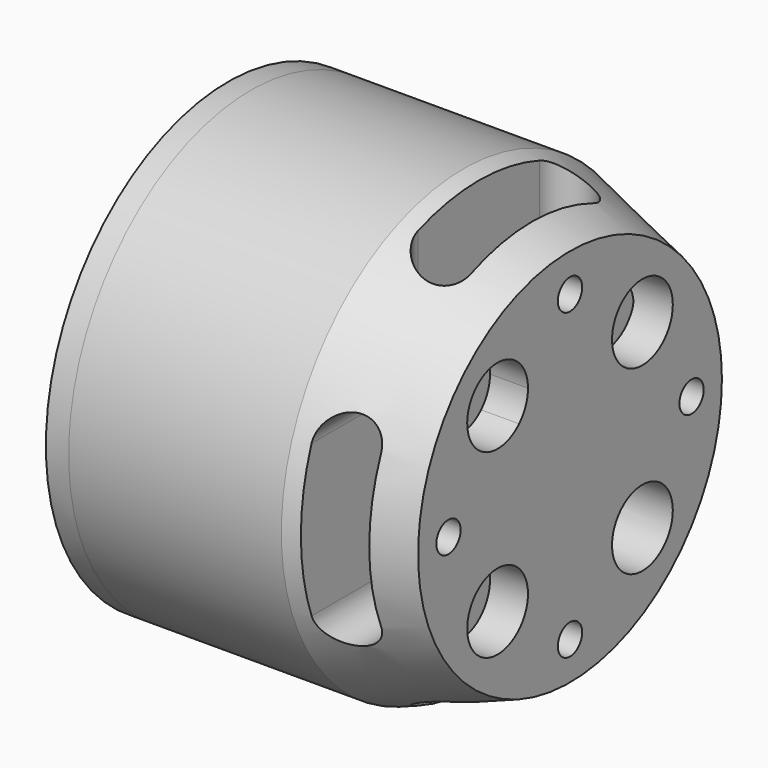
from build123d import *

# Parameters (mm, degrees)
F0_R      = 30
F1_DEPTH  = 14
F2_W      = 2
F2_H      = 5
F4_R      = 2
F4_R_2    = 5
F5_DEPTH  = 10
F6_R      = 1.5
F7_DEPTH  = 12
F9_DEPTH  = 32.5
F11_DEPTH = 32.5


with BuildPart() as f1:
    # F0 (on Right) → F1 (new body, symmetric)
    with BuildSketch(Plane.YZ):
        Circle(F0_R)
    extrude(amount=F1_DEPTH, both=True)

    # F2 (on Top) → F3 (revolve)
    with BuildSketch(Plane.XY):
        Polygon((14, 30), (14, 0), (28, 0), (28, 25), align=None)
        Polygon((-24, 0), (-14, 0), (-14, 30), (-17, 30), (-24, 18), (-24, 8), align=None)
        Polygon((-26, 0), (-24, 0), (-24, 8), (-26, 8), (-26, 5), align=None)
        with Locations((-27, 2.5)):
            Rectangle(F2_W, F2_H)
    revolve(axis=Axis((21, 0, 0), (1, 0, 0)))

    # F4 (on face) → F5 (cut)
    with BuildSketch(Plane.YZ.offset(28)):
        with Locations((0, 20)):
            Circle(F4_R)
        with Locations((20, 0)):
            Circle(F4_R)
        with Locations((0, -20)):
            Circle(F4_R)
        with Locations((-20, 0)):
            Circle(F4_R)
        with BuildLine():
            ThreePointArc((-8.3811986264, 8.3811986264), (-7.2973348698, 10.0033153705), (-6.9167325323, 11.9167325323))
            ThreePointArc((-6.9167325323, 11.9167325323), (-16.5361301949, 13.8301496942), (-8.3811986264, 8.3811986264))
        make_face()
        with Locations((-11.9167325323, -11.9167325323)):
            Circle(F4_R_2)
        with Locations((11.9167325323, -11.9167325323)):
            Circle(F4_R_2)
        with Locations((11.9167325323, 11.9167325323)):
            Circle(F4_R_2)
    extrude(amount=-F5_DEPTH, mode=Mode.SUBTRACT)

    # F6 (on face) → F7 (cut)
    with BuildSketch(Plane(origin=(-24, 0, 0), x_dir=(0, -1, 0), z_dir=(-1, 0, 0))):
        with BuildLine():
            ThreePointArc((6.0104076401, 6.0104076401), (7.6450929604, 5.6852485131), (8.5710678119, 7.0710678119))
            ThreePointArc((8.5710678119, 7.0710678119), (6.4970426633, 8.4568871106), (6.0104076401, 6.0104076401))
        make_face()
        with Locations((-7.0710678119, 7.0710678119)):
            Circle(F6_R)
        with Locations((-7.0710678119, -7.0710678119)):
            Circle(F6_R)
        with Locations((7.0710678119, -7.0710678119)):
            Circle(F6_R)
        with BuildLine():
            ThreePointArc((-5, 13.325828301), (-4.6650515965, 13.0850760417), (-4.2614253455, 13))
            Line((-4.2614253455, 13), (4.2614253455, 13))
            ThreePointArc((4.2614253455, 13), (4.6650515965, 13.0850760417), (5, 13.325828301))
            Line((5, 13.325828301), (5, 27.4834214607))
            ThreePointArc((5, 27.4834214607), (4.9097108444, 27.4958467404), (4.8186654182, 27.5))
            Line((4.8186654182, 27.5), (-4.8186654182, 27.5))
            ThreePointArc((-4.8186654182, 27.5), (-4.9097108444, 27.4958467404), (-5, 27.4834214607))
            Line((-5, 27.4834214607), (-5, 13.325828301))
        make_face()
        with BuildLine():
            ThreePointArc((-5.2172043542, 13.7059141512), (-5.1296562465, 13.5038396402), (-5, 13.325828301))
            Line((-5, 13.325828301), (-5, 27.4834214607))
            ThreePointArc((-5, 27.4834214607), (-5.0859336495, 27.4636221731), (-5.1697888598, 27.4363291776))
            Line((-5.1697888598, 27.4363291776), (-8.1184701739, 26.3305736848))
            ThreePointArc((-8.1184701739, 26.3305736848), (-8.664831433, 25.8352900967), (-8.723125741, 25.1001586584))
            Line((-8.723125741, 25.1001586584), (-5.2172043542, 13.7059141512))
        make_face()
        with BuildLine():
            Line((5, 27.4834214607), (5, 13.325828301))
            ThreePointArc((5, 13.325828301), (5.1296562465, 13.5038396402), (5.2172043542, 13.7059141512))
            Line((5.2172043542, 13.7059141512), (8.723125741, 25.1001586584))
            ThreePointArc((8.723125741, 25.1001586584), (8.664831433, 25.8352900967), (8.1184701739, 26.3305736848))
            Line((8.1184701739, 26.3305736848), (5.1697888598, 27.4363291776))
            ThreePointArc((5.1697888598, 27.4363291776), (5.0859336495, 27.4636221731), (5, 27.4834214607))
        make_face()
        with BuildLine():
            Line((-24.6650046937, 13.0807904912), (-27.6431037026, 3.9151441995))
            ThreePointArc((-27.6431037026, 3.9151441995), (-27.6829789189, 3.7404934998), (-27.6910522626, 3.5615305961))
            Line((-27.6910522626, 3.5615305961), (-27.5506089328, 0.415470779))
            ThreePointArc((-27.5506089328, 0.415470779), (-27.2484011631, -0.2572007025), (-26.5672635501, -0.5398099915))
            Line((-26.5672635501, -0.5398099915), (-14.6473037738, -0.7264958018))
            ThreePointArc((-14.6473037738, -0.7264958018), (-14.0502115201, -0.5402130253), (-13.6805875639, -0.0356354167))
            Line((-13.6805875639, -0.0356354167), (-11.0468818598, 8.0700772704))
            ThreePointArc((-11.0468818598, 8.0700772704), (-11.0493306449, 8.6955486412), (-11.4228941567, 9.1972165941))
            Line((-11.4228941567, 9.1972165941), (-21.176075354, 16.0525611654))
            ThreePointArc((-21.176075354, 16.0525611654), (-21.8932408307, 16.2242880915), (-22.5331184286, 15.8577187015))
            Line((-22.5331184286, 15.8577187015), (-24.4959470325, 13.3950533621))
            ThreePointArc((-24.4959470325, 13.3950533621), (-24.5946073158, 13.2455239394), (-24.6650046937, 13.0807904912))
        make_face()
        with BuildLine():
            Line((-20.0624766516, -19.4156268767), (-12.2657122245, -25.0803078139))
            ThreePointArc((-12.2657122245, -25.0803078139), (-12.111931658, -25.1722014325), (-11.9442226227, -25.2351822172))
            Line((-11.9442226227, -25.2351822172), (-8.9087425573, -26.073798622))
            ThreePointArc((-8.9087425573, -26.073798622), (-8.1756066249, -25.9942488728), (-7.696346121, -25.4337795806))
            Line((-7.696346121, -25.4337795806), (-3.8353272216, -14.1549132493))
            ThreePointArc((-3.8353272216, -14.1549132493), (-3.8279810163, -13.5294802269), (-4.193642755, -13.0220238987))
            Line((-4.193642755, -13.0220238987), (-11.0887738046, -8.0124179551))
            ThreePointArc((-11.0887738046, -8.0124179551), (-11.6843891437, -7.821465605), (-12.2769411929, -8.0217216941))
            Line((-12.2769411929, -8.0217216941), (-21.8106600582, -15.1791302517))
            ThreePointArc((-21.8106600582, -15.1791302517), (-22.1955983903, -15.808128613), (-22.0447032353, -16.5299645432))
            Line((-22.0447032353, -16.5299645432), (-20.3091167125, -19.1577309187))
            ThreePointArc((-20.3091167125, -19.1577309187), (-20.1973934849, -19.2977695568), (-20.0624766516, -19.4156268767))
        make_face()
        with BuildLine():
            Line((12.2657122245, -25.0803078139), (20.0624766516, -19.4156268767))
            ThreePointArc((20.0624766516, -19.4156268767), (20.1973934849, -19.2977695568), (20.3091167125, -19.1577309187))
            Line((20.3091167125, -19.1577309187), (22.0447032353, -16.5299645432))
            ThreePointArc((22.0447032353, -16.5299645432), (22.1955983903, -15.808128613), (21.8106600582, -15.1791302517))
            Line((21.8106600582, -15.1791302517), (12.2769411929, -8.0217216941))
            ThreePointArc((12.2769411929, -8.0217216941), (11.6843891437, -7.821465605), (11.0887738046, -8.0124179551))
            Line((11.0887738046, -8.0124179551), (4.193642755, -13.0220238987))
            ThreePointArc((4.193642755, -13.0220238987), (3.8279810163, -13.5294802269), (3.8353272216, -14.1549132493))
            Line((3.8353272216, -14.1549132493), (7.696346121, -25.4337795806))
            ThreePointArc((7.696346121, -25.4337795806), (8.1756066249, -25.9942488728), (8.9087425573, -26.073798622))
            Line((8.9087425573, -26.073798622), (11.9442226227, -25.2351822172))
            ThreePointArc((11.9442226227, -25.2351822172), (12.111931658, -25.1722014325), (12.2657122245, -25.0803078139))
        make_face()
        with BuildLine():
            Line((27.6431037026, 3.9151441995), (24.6650046937, 13.0807904912))
            ThreePointArc((24.6650046937, 13.0807904912), (24.5946073158, 13.2455239394), (24.4959470325, 13.3950533621))
            Line((24.4959470325, 13.3950533621), (22.5331184286, 15.8577187015))
            ThreePointArc((22.5331184286, 15.8577187015), (21.8932408307, 16.2242880915), (21.176075354, 16.0525611654))
            Line((21.176075354, 16.0525611654), (11.4228941567, 9.1972165941))
            ThreePointArc((11.4228941567, 9.1972165941), (11.0493306449, 8.6955486412), (11.0468818598, 8.0700772704))
            Line((11.0468818598, 8.0700772704), (13.6805875639, -0.0356354167))
            ThreePointArc((13.6805875639, -0.0356354167), (14.0502115201, -0.5402130253), (14.6473037738, -0.7264958018))
            Line((14.6473037738, -0.7264958018), (26.5672635501, -0.5398099915))
            ThreePointArc((26.5672635501, -0.5398099915), (27.2484011631, -0.2572007025), (27.5506089328, 0.415470779))
            Line((27.5506089328, 0.415470779), (27.6910522626, 3.5615305961))
            ThreePointArc((27.6910522626, 3.5615305961), (27.6829789189, 3.7404934998), (27.6431037026, 3.9151441995))
        make_face()
    extrude(amount=-F7_DEPTH, mode=Mode.SUBTRACT)

    # F8 (on Front) → F9 (cut, symmetric)
    with BuildSketch(Plane.XZ):
        with BuildLine():
            ThreePointArc((23, 10), (19.5, 13.5), (16, 10))
            Line((16, 10), (23, 10))
        make_face()
        with BuildLine():
            ThreePointArc((23, 10), (19.5, 6.5), (16, 10))
            Line((16, 10), (16, -10))
            ThreePointArc((16, -10), (19.5, -6.5), (23, -10))
            Line((23, -10), (23, 10))
        make_face()
        with BuildLine():
            Line((23, 10), (16, 10))
            ThreePointArc((16, 10), (19.5, 6.5), (23, 10))
        make_face()
        with BuildLine():
            ThreePointArc((23, -10), (19.5, -6.5), (16, -10))
            Line((16, -10), (23, -10))
        make_face()
        with BuildLine():
            Line((23, -10), (16, -10))
            ThreePointArc((16, -10), (19.5, -13.5), (23, -10))
        make_face()
    extrude(amount=F9_DEPTH, both=True, mode=Mode.SUBTRACT)

    # F10 (on Top) → F11 (cut, symmetric)
    with BuildSketch(Plane.XY):
        with BuildLine():
            ThreePointArc((23, 10), (19.5, 13.5), (16, 10))
            Line((16, 10), (23, 10))
        make_face()
        with BuildLine():
            ThreePointArc((23, 10), (19.5, 6.5), (16, 10))
            Line((16, 10), (16, -10))
            ThreePointArc((16, -10), (19.5, -6.5), (23, -10))
            Line((23, -10), (23, 10))
        make_face()
        with BuildLine():
            Line((23, 10), (16, 10))
            ThreePointArc((16, 10), (19.5, 6.5), (23, 10))
        make_face()
        with BuildLine():
            ThreePointArc((23, -10), (19.5, -6.5), (16, -10))
            Line((16, -10), (23, -10))
        make_face()
        with BuildLine():
            Line((23, -10), (16, -10))
            ThreePointArc((16, -10), (19.5, -13.5), (23, -10))
        make_face()
    extrude(amount=F11_DEPTH, both=True, mode=Mode.SUBTRACT)


solid = f1.part
